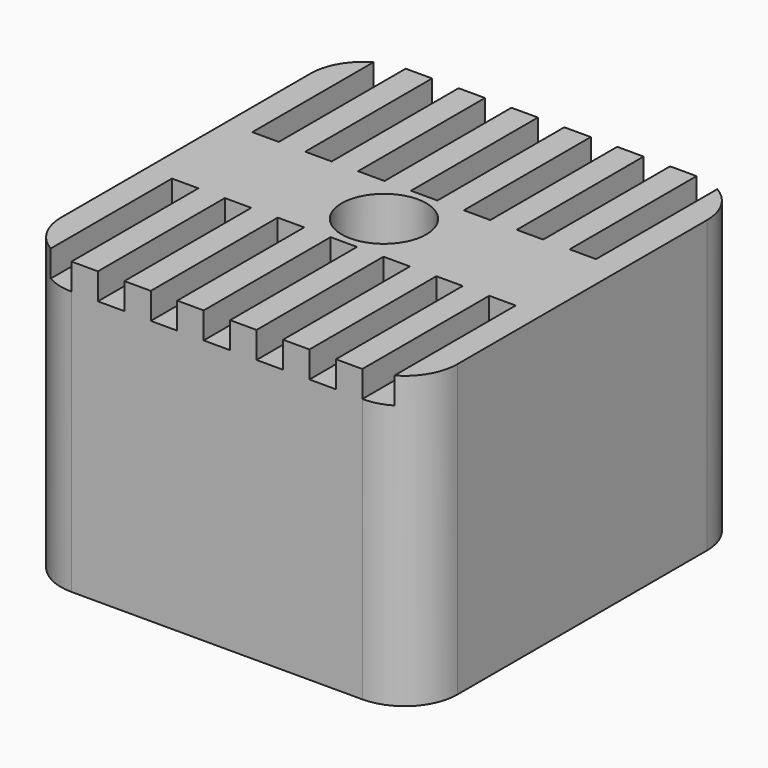
from build123d import *

# Parameters (mm, degrees)
F0_W     = 15
F0_H     = 15.8
F0_R     = 3
F0_R_2   = 1.6
F1_DEPTH = 11
F2_DEPTH = 5
F3_R     = 2
F4_W     = 0.5
F4_H     = 6
F5_DEPTH = 1


with BuildPart() as f1:
    # F0 (on Top) → F1 (new body)
    with BuildSketch(Plane.XY):
        Rectangle(F0_W, F0_H)
        Circle(F0_R, mode=Mode.SUBTRACT)
        Circle(F0_R)
        Circle(F0_R_2, mode=Mode.SUBTRACT)
    extrude(amount=F1_DEPTH)

    # F0 (on Top) → F2 (cut)
    with BuildSketch(Plane.XY):
        Circle(F0_R)
        Circle(F0_R_2, mode=Mode.SUBTRACT)
    extrude(amount=F2_DEPTH, mode=Mode.SUBTRACT)

    # F3
    f3_edges = [f1.edges().sort_by_distance(p)[0] for p in [
        (-7.5, 7.9, 5.5),
        (-7.5, -7.9, 5.5),
        (7.5, -7.9, 5.5),
        (7.5, 7.9, 5.5),
    ]]
    fillet(f3_edges, radius=F3_R)

    # F4 (on face) → F5 (cut)
    with BuildSketch(Plane.XY.offset(11)):
        with Locations((-0.25, 4.9)):
            Rectangle(F4_W, F4_H)
        with Locations((0.25, 4.9)):
            Rectangle(F4_W, F4_H)
        Polygon((2, 7.9), (1.5, 7.9), (1.5, 1.9), (2, 1.9), (2.5, 1.9), (2.5, 7.9), align=None)
        Polygon((4, 7.9), (3.5, 7.9), (3.5, 1.9), (4, 1.9), (4.5, 1.9), (4.5, 7.9), align=None)
        with BuildLine():
            ThreePointArc((6.5, 7.632051), (6.017638, 7.831852), (5.5, 7.9))
            Line((5.5, 7.9), (5.5, 1.9))
            Line((5.5, 1.9), (6, 1.9))
            Line((6, 1.9), (6.5, 1.9))
            Line((6.5, 1.9), (6.5, 7.632051))
        make_face()
        Polygon((-1.5, 1.9), (-1.5, 7.9), (-2, 7.9), (-2.5, 7.9), (-2.5, 1.9), (-2, 1.9), align=None)
        Polygon((-3.5, 1.9), (-3.5, 7.9), (-4, 7.9), (-4.5, 7.9), (-4.5, 1.9), (-4, 1.9), align=None)
        with BuildLine():
            Line((-5.5, 1.9), (-5.5, 7.9))
            ThreePointArc((-5.5, 7.9), (-6.017638, 7.831852), (-6.5, 7.632051))
            Line((-6.5, 7.632051), (-6.5, 1.9))
            Line((-6.5, 1.9), (-6, 1.9))
            Line((-6, 1.9), (-5.5, 1.9))
        make_face()
        with BuildLine():
            Line((-6.5, -1.9), (-6.5, -7.632051))
            ThreePointArc((-6.5, -7.632051), (-6.017638, -7.831852), (-5.5, -7.9))
            Line((-5.5, -7.9), (-5.5, -1.9))
            Line((-5.5, -1.9), (-6, -1.9))
            Line((-6, -1.9), (-6.5, -1.9))
        make_face()
        Polygon((-4.5, -1.9), (-4.5, -7.9), (-4, -7.9), (-3.5, -7.9), (-3.5, -1.9), (-4, -1.9), align=None)
        Polygon((-2.5, -1.9), (-2.5, -7.9), (-2, -7.9), (-1.5, -7.9), (-1.5, -1.9), (-2, -1.9), align=None)
        Polygon((0, -7.9), (0.5, -7.9), (0.5, -1.9), (0, -1.9), (-0.5, -1.9), (-0.5, -7.9), align=None)
        Polygon((2, -7.9), (2.5, -7.9), (2.5, -1.9), (2, -1.9), (1.5, -1.9), (1.5, -7.9), align=None)
        Polygon((4, -7.9), (4.5, -7.9), (4.5, -1.9), (4, -1.9), (3.5, -1.9), (3.5, -7.9), align=None)
        with BuildLine():
            ThreePointArc((5.5, -7.9), (6.017638, -7.831852), (6.5, -7.632051))
            Line((6.5, -7.632051), (6.5, -1.9))
            Line((6.5, -1.9), (6, -1.9))
            Line((6, -1.9), (5.5, -1.9))
            Line((5.5, -1.9), (5.5, -7.9))
        make_face()
    extrude(amount=-F5_DEPTH, mode=Mode.SUBTRACT)


solid = f1.part
